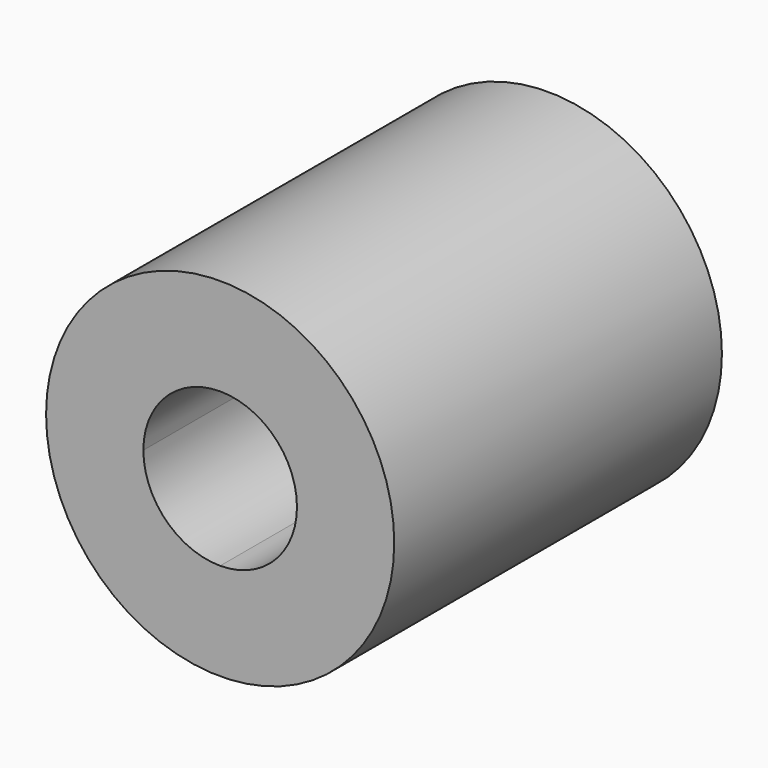
from build123d import *

# Parameters (mm, degrees)
F0_R     = 10.795
F1_DEPTH = 25.4
F3_DEPTH = 25.401
F4_DEPTH = 11.0998


with BuildPart() as f1:
    # F0 (on Front) → F1 (new body)
    with BuildSketch(Plane.XZ):
        Circle(F0_R)
    extrude(amount=F1_DEPTH)

    # F2 (on Front) → F3 (cut, through all)
    with BuildSketch(Plane.XZ):
        with BuildLine():
            ThreePointArc((4.7625, 0), (3.367596, 3.367596), (0, 4.7625))
            ThreePointArc((0, 4.7625), (-3.367596, 3.367596), (-4.7625, 0))
            ThreePointArc((-4.7625, 0), (-3.367596, -3.367596), (0, -4.7625))
            ThreePointArc((0, -4.7625), (3.367596, -3.367596), (4.7625, 0))
        make_face()
    extrude(amount=F3_DEPTH, mode=Mode.SUBTRACT)

    # F2 (on Front) → F4 (cut)
    with BuildSketch(Plane.XZ):
        with BuildLine():
            Line((4.7625, 0), (4.7625, 4.7625))
            Line((4.7625, 4.7625), (0, 4.7625))
            ThreePointArc((0, 4.7625), (3.367596, 3.367596), (4.7625, 0))
        make_face()
        with BuildLine():
            ThreePointArc((-4.7625, 0), (-3.367596, 3.367596), (0, 4.7625))
            Line((0, 4.7625), (-4.7625, 4.7625))
            Line((-4.7625, 4.7625), (-4.7625, 0))
        make_face()
        with BuildLine():
            Line((4.7625, -4.7625), (4.7625, 0))
            ThreePointArc((4.7625, 0), (3.367596, -3.367596), (0, -4.7625))
            Line((0, -4.7625), (4.7625, -4.7625))
        make_face()
        with BuildLine():
            ThreePointArc((0, -4.7625), (-3.367596, -3.367596), (-4.7625, 0))
            Line((-4.7625, 0), (-4.7625, -4.7625))
            Line((-4.7625, -4.7625), (0, -4.7625))
        make_face()
    extrude(amount=F4_DEPTH, mode=Mode.SUBTRACT)


solid = f1.part
